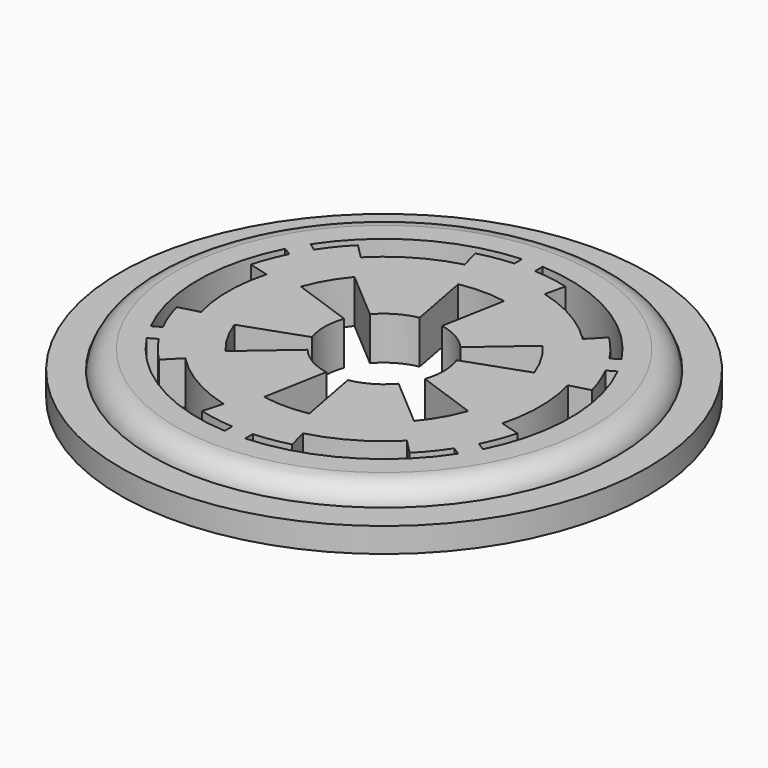
from build123d import *

# Parameters (mm, degrees)
F2_R      = 13.335
F3_DEPTH  = 2.778125
F4_R      = 38.2444741699
F5_DEPTH  = 8
F6_SCALE  = 0.35
F8_R      = 17
F8_R_2    = 15
F9_DEPTH  = 1.5875
F10_DEPTH = 2.778125
F12_R     = 1.5330256121


with BuildPart() as f3:
    # F2 (on Top) → F3 (new body)
    with BuildSketch(Plane.XY):
        Circle(F2_R)
    extrude(amount=F3_DEPTH)


with BuildPart() as f5:
    # F4 (on Top) → F5 (new body)
    with BuildSketch(Plane.XY):
        Circle(F4_R)
        with BuildLine():
            Line((-23.1882267199, -22.7963136928), (-20.5038965179, -20.0980395265))
            ThreePointArc((-20.5038965179, -20.0980395265), (-14.4400553992, -24.8158369855), (-7.3422192738, -27.7566709343))
            Line((-7.3422192738, -27.7566709343), (-8.3522358133, -31.4261982001))
            ThreePointArc((-8.3522358133, -31.4261982001), (-5.1890091297, -32.1004666733), (-1.9744469831, -32.4571615442))
            Line((-1.9744469831, -32.4571615442), (-1.9744469831, -34.2176145586))
            ThreePointArc((-1.9744469831, -34.2176145586), (-17.2202807743, -29.634532509), (-28.7509978869, -18.6580735201))
            Line((-28.7509978869, -18.6580735201), (-27.2287172495, -17.775340597))
            ThreePointArc((-27.2287172495, -17.775340597), (-25.3331719789, -20.3861760485), (-23.1882267199, -22.7963136928))
        make_face(mode=Mode.SUBTRACT)
        with BuildLine():
            ThreePointArc((-10.3971981615, -3.5914162096), (-10.9996759089, 0.0844387241), (-10.3408372804, 3.7506111957))
            Line((-10.3408372804, 3.7506111957), (-21.461091167, 7.6938226179))
            ThreePointArc((-21.461091167, 7.6938226179), (-19.7124031361, 11.4540169003), (-17.3115200116, 14.8352490859))
            Line((-17.3115200116, 14.8352490859), (-8.3441187098, 7.1676832349))
            ThreePointArc((-8.3441187098, 7.1676832349), (-5.5232984187, 9.5127900522), (-2.0882255783, 10.7999682376))
            Line((-2.0882255783, 10.7999682376), (-4.2733694852, 22.3944558719))
            ThreePointArc((-4.2733694852, 22.3944558719), (-0.058138144, 22.7984639945), (4.1590988757, 22.4159594284))
            Line((4.1590988757, 22.4159594284), (2.013932512, 10.8140684221))
            ThreePointArc((2.013932512, 10.8140684221), (5.4124271261, 9.5763057911), (8.2257613426, 7.303208222))
            Line((8.2257613426, 7.303208222), (17.1646100288, 15.0049826095))
            ThreePointArc((17.1646100288, 15.0049826095), (19.6462671578, 11.5670881089), (21.4484059868, 7.7291151615))
            Line((21.4484059868, 7.7291151615), (10.3311758086, 3.7771426254))
            ThreePointArc((10.3311758086, 3.7771426254), (10.9996061892, 0.0930789068), (10.3936163191, -3.6017689837))
            Line((10.3936163191, -3.6017689837), (21.5138702057, -7.5449804059))
            ThreePointArc((21.5138702057, -7.5449804059), (19.76448965, -11.3639029135), (17.3441732478, -14.7970603467))
            Line((17.3441732478, -14.7970603467), (8.3767719461, -7.1294944957))
            ThreePointArc((8.3767719461, -7.1294944957), (5.5001196113, -9.526210383), (1.986209068, -10.8191946807))
            Line((1.986209068, -10.8191946807), (4.1713529749, -22.4136823149))
            ThreePointArc((4.1713529749, -22.4136823149), (0.020424338, -22.7985289745), (-4.1311871745, -22.4211202459))
            Line((-4.1311871745, -22.4211202459), (-1.9860208108, -10.8192292396))
            ThreePointArc((-1.9860208108, -10.8192292396), (-5.5419240379, -9.5019512711), (-8.4392236838, -7.0554591356))
            Line((-8.4392236838, -7.0554591356), (-17.37807237, -14.7572335231))
            ThreePointArc((-17.37807237, -14.7572335231), (-19.77793068, -11.3404937534), (-21.5144283397, -7.5433887457))
            Line((-21.5144283397, -7.5433887457), (-10.3971981615, -3.5914162096))
        make_face(mode=Mode.SUBTRACT)
        with BuildLine():
            Line((8.2448381461, -31.4545453049), (7.3048568966, -27.7665271675))
            ThreePointArc((7.3048568966, -27.7665271675), (14.3464034329, -24.8700959741), (20.3790232601, -20.2246477395))
            Line((20.3790232601, -20.2246477395), (23.0455846526, -22.9405057576))
            ThreePointArc((23.0455846526, -22.9405057576), (25.245886713, -20.4941694261), (27.1877075422, -17.8380025506))
            Line((27.1877075422, -17.8380025506), (28.6707925268, -18.7810873715))
            ThreePointArc((28.6707925268, -18.7810873715), (17.0863228663, -29.7119699428), (1.8120871851, -34.226596778))
            Line((1.8120871851, -34.226596778), (1.8120871851, -32.4666308142))
            ThreePointArc((1.8120871851, -32.4666308142), (5.0538614988, -32.1220214237), (8.2448381461, -31.4545453049))
        make_face(mode=Mode.SUBTRACT)
        with BuildLine():
            Line((-31.3700210711, 8.5608150542), (-27.6944457003, 7.5735488759))
            ThreePointArc((-27.6944457003, 7.5735488759), (-28.7112762752, 0.0598320032), (-27.7257703658, -7.4580575786))
            Line((-27.7257703658, -7.4580575786), (-31.4063372087, -8.4266102037))
            ThreePointArc((-31.4063372087, -8.4266102037), (-30.4009916701, -11.5388683098), (-29.0880936569, -14.5343931349))
            Line((-29.0880936569, -14.5343931349), (-30.6199831431, -15.4000071198))
            ThreePointArc((-30.6199831431, -15.4000071198), (-34.274503919, 0.0443630643), (-30.5800147401, 15.4792210873))
            Line((-30.5800147401, 15.4792210873), (-29.0784483945, 14.5536804747))
            ThreePointArc((-29.0784483945, 14.5536804747), (-30.3724048138, 11.6139055542), (-31.3700210711, 8.5608150542))
        make_face(mode=Mode.SUBTRACT)
        with BuildLine():
            ThreePointArc((-1.9952594939, 32.4558887715), (-5.2058787413, 32.0977351681), (-8.3651152282, 31.4227723731))
            Line((-8.3651152282, 31.4227723731), (-7.3636623113, 27.7509899389))
            ThreePointArc((-7.3636623113, 27.7509899389), (-14.4032915605, 24.8371930267), (-20.4287021431, 20.1744663863))
            Line((-20.4287021431, 20.1744663863), (-23.1117025135, 22.8738930513))
            ThreePointArc((-23.1117025135, 22.8738930513), (-25.2757879931, 20.457280311), (-27.1883197733, 17.8370693864))
            Line((-27.1883197733, 17.8370693864), (-28.6074298216, 18.8774613223))
            ThreePointArc((-28.6074298216, 18.8774613223), (-17.1158395657, 29.6949763922), (-1.9952594939, 34.2164072708))
            Line((-1.9952594939, 34.2164072708), (-1.9952594939, 32.4558887715))
        make_face(mode=Mode.SUBTRACT)
        with BuildLine():
            ThreePointArc((27.7193841618, -7.4817582766), (28.7111916158, 0.0918761434), (27.6709335359, 7.6590079303))
            Line((27.6709335359, 7.6590079303), (31.3395244772, 8.671792314))
            ThreePointArc((31.3395244772, 8.671792314), (30.3348860947, 11.7115525023), (29.0362003632, 14.6377882502))
            Line((29.0362003632, 14.6377882502), (30.558746192, 15.5211667778))
            ThreePointArc((30.558746192, 15.5211667778), (34.2745262259, 0.0209514), (30.5776989663, -15.4837951711))
            Line((30.5776989663, -15.4837951711), (29.0783158896, -14.5539452184))
            ThreePointArc((29.0783158896, -14.5539452184), (30.3813182742, -11.5905684208), (31.3832152909, -8.5123189788))
            Line((31.3832152909, -8.5123189788), (27.7193841618, -7.4817582766))
        make_face(mode=Mode.SUBTRACT)
        with BuildLine():
            Line((7.3346508819, 27.7586718282), (8.2016570522, 31.465832231))
            ThreePointArc((8.2016570522, 31.465832231), (5.0263686738, 32.1263349038), (1.8010777644, 32.4672434198))
            Line((1.8010777644, 32.4672434198), (1.8010777644, 34.2271778834))
            ThreePointArc((1.8010777644, 34.2271778834), (17.0694808141, 29.7216488727), (28.6555357791, 18.8043573724))
            Line((28.6555357791, 18.8043573724), (27.138533169, 17.9127271467))
            ThreePointArc((27.138533169, 17.9127271467), (25.1932014823, 20.5589001521), (22.9908654017, 22.9953448435))
            Line((22.9908654017, 22.9953448435), (20.3499365278, 20.2539144004))
            ThreePointArc((20.3499365278, 20.2539144004), (14.3418771792, 24.8727064108), (7.3346508819, 27.7586718282))
        make_face(mode=Mode.SUBTRACT)
    extrude(amount=F5_DEPTH)


with BuildPart() as f5_1:
    # F6: moved
    add(f5.part.scale(F6_SCALE))


with BuildPart() as f3_1:
    add(f3.part)

    # F7: cut F5
    add(f5_1.part, mode=Mode.SUBTRACT)


with BuildPart() as f9:
    # F8 (on Top) → F9 (new body)
    with BuildSketch(Plane.XY):
        Circle(F8_R)
        Circle(F8_R_2, mode=Mode.SUBTRACT)
    extrude(amount=F9_DEPTH)


with BuildPart() as f10:
    # F8 (on Top) → F10 (new body)
    with BuildSketch(Plane.XY):
        Circle(F8_R_2)
    extrude(amount=F10_DEPTH)

    # F11: cut F3
    add(f3_1.part, mode=Mode.SUBTRACT)

    # F12
    f12_edges = [f10.edges().sort_by_distance(p)[0] for p in [
        (-15, 0, 2.778125),
    ]]
    fillet(f12_edges, radius=F12_R)


solid = Compound([f9.part, f10.part])
